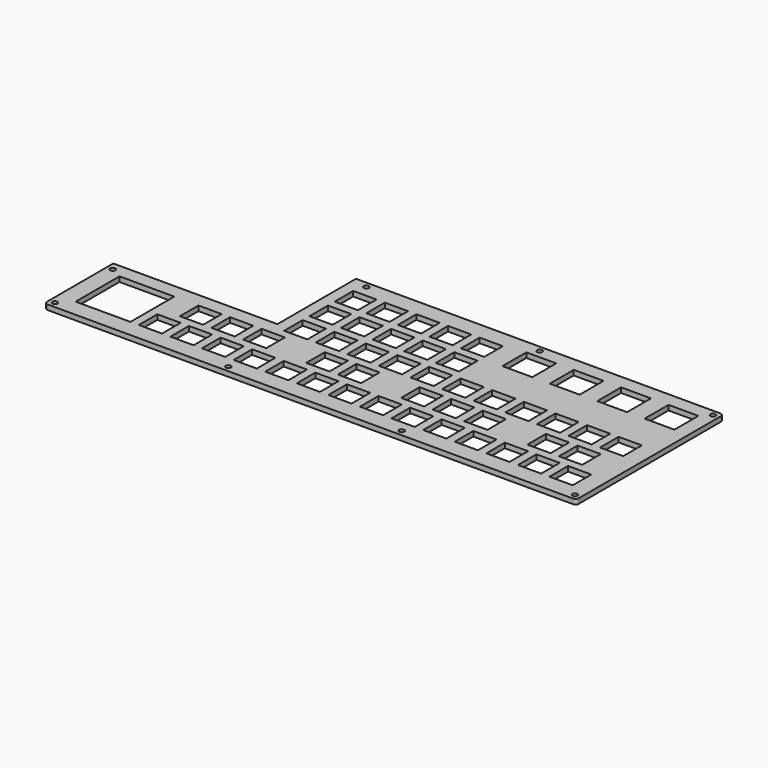
from build123d import *

# Parameters (mm, degrees)
PAD_DEPTH       = 3
SKETCH001_W     = 14
SKETCH001_H     = 14
POCKET_DEPTH    = 4
SKETCH002_W     = 14
SKETCH002_H     = 14
POCKET001_DEPTH = 4
SKETCH003_W     = 14
SKETCH003_H     = 14
POCKET002_DEPTH = 4
SKETCH004_W     = 14
SKETCH004_H     = 14
POCKET003_DEPTH = 4
SKETCH005_W     = 18
SKETCH005_H     = 18
POCKET004_DEPTH = 4
SKETCH006_W     = 33.05
SKETCH006_H     = 33.05
POCKET005_DEPTH = 4
SKETCH007_R     = 1.55
POCKET006_DEPTH = 4


with BuildPart() as part:
    # Sketch → Pad (new body)
    with BuildSketch(Plane.XY):
        with BuildLine():
            Line((81.5225, 17.4775), (301.2275, 17.4775))
            ThreePointArc((303.2275, 15.4775), (302.641714, 16.891714), (301.2275, 17.4775))
            Line((303.2275, 15.4775), (303.2275, -91.6775))
            ThreePointArc((301.2275, -93.6775), (302.641714, -93.091714), (303.2275, -91.6775))
            Line((301.2275, -93.6775), (-15.4775, -93.6775))
            ThreePointArc((-17.4775, -91.6775), (-16.891714, -93.091714), (-15.4775, -93.6775))
            Line((-17.4775, -91.6775), (-17.4775, -41.7225))
            Line((-17.4775, -41.7225), (81.5225, -41.7225))
            Line((81.5225, 17.4775), (81.5225, -41.7225))
        make_face()
    extrude(amount=PAD_DEPTH)

    # Sketch001 → Pocket (cut)
    with BuildSketch(Plane.XY.offset(3)):
        with Locations((38.1, -76.2)):
            Rectangle(SKETCH001_W, SKETCH001_H)
        with Locations((57.15, -76.2)):
            Rectangle(SKETCH001_W, SKETCH001_H)
        with Locations((76.2, -76.2)):
            Rectangle(SKETCH001_W, SKETCH001_H)
        with Locations((95.25, -76.2)):
            Rectangle(SKETCH001_W, SKETCH001_H)
        with Locations((114.3, -76.2)):
            Rectangle(SKETCH001_W, SKETCH001_H)
        with Locations((133.35, -76.2)):
            Rectangle(SKETCH001_W, SKETCH001_H)
        with Locations((152.4, -76.2)):
            Rectangle(SKETCH001_W, SKETCH001_H)
        with Locations((171.45, -76.2)):
            Rectangle(SKETCH001_W, SKETCH001_H)
        with Locations((190.5, -76.2)):
            Rectangle(SKETCH001_W, SKETCH001_H)
        with Locations((209.55, -76.2)):
            Rectangle(SKETCH001_W, SKETCH001_H)
        with Locations((228.6, -76.2)):
            Rectangle(SKETCH001_W, SKETCH001_H)
        with Locations((247.65, -76.2)):
            Rectangle(SKETCH001_W, SKETCH001_H)
        with Locations((266.7, -76.2)):
            Rectangle(SKETCH001_W, SKETCH001_H)
        with Locations((285.75, -76.2)):
            Rectangle(SKETCH001_W, SKETCH001_H)
    extrude(amount=-POCKET_DEPTH, mode=Mode.SUBTRACT)

    # Sketch002 → Pocket001 (cut)
    with BuildSketch(Plane.XY.offset(3)):
        with Locations((47.625, -57.15)):
            Rectangle(SKETCH002_W, SKETCH002_H)
        with Locations((66.675, -57.15)):
            Rectangle(SKETCH002_W, SKETCH002_H)
        with Locations((85.725, -57.15)):
            Rectangle(SKETCH002_W, SKETCH002_H)
        with Locations((123.825, -57.15)):
            Rectangle(SKETCH002_W, SKETCH002_H)
        with Locations((142.875, -57.15)):
            Rectangle(SKETCH002_W, SKETCH002_H)
        with Locations((180.975, -57.15)):
            Rectangle(SKETCH002_W, SKETCH002_H)
        with Locations((200.025, -57.15)):
            Rectangle(SKETCH002_W, SKETCH002_H)
        with Locations((219.075, -57.15)):
            Rectangle(SKETCH002_W, SKETCH002_H)
        with Locations((257.175, -57.15)):
            Rectangle(SKETCH002_W, SKETCH002_H)
        with Locations((276.225, -57.15)):
            Rectangle(SKETCH002_W, SKETCH002_H)
    extrude(amount=-POCKET001_DEPTH, mode=Mode.SUBTRACT)

    # Sketch003 → Pocket002 (cut)
    with BuildSketch(Plane.XY.offset(3)):
        with Locations((95.25, 0)):
            Rectangle(SKETCH003_W, SKETCH003_H)
        with Locations((114.3, 0)):
            Rectangle(SKETCH003_W, SKETCH003_H)
        with Locations((133.35, 0)):
            Rectangle(SKETCH003_W, SKETCH003_H)
        with Locations((152.4, 0)):
            Rectangle(SKETCH003_W, SKETCH003_H)
        with Locations((171.45, 0)):
            Rectangle(SKETCH003_W, SKETCH003_H)
        with Locations((95.25, -19.05)):
            Rectangle(SKETCH003_W, SKETCH003_H)
        with Locations((114.3, -19.05)):
            Rectangle(SKETCH003_W, SKETCH003_H)
        with Locations((133.35, -19.05)):
            Rectangle(SKETCH003_W, SKETCH003_H)
        with Locations((152.4, -19.05)):
            Rectangle(SKETCH003_W, SKETCH003_H)
        with Locations((171.45, -19.05)):
            Rectangle(SKETCH003_W, SKETCH003_H)
        with Locations((95.25, -38.1)):
            Rectangle(SKETCH003_W, SKETCH003_H)
        with Locations((114.3, -38.1)):
            Rectangle(SKETCH003_W, SKETCH003_H)
        with Locations((133.35, -38.1)):
            Rectangle(SKETCH003_W, SKETCH003_H)
        with Locations((152.4, -38.1)):
            Rectangle(SKETCH003_W, SKETCH003_H)
        with Locations((171.45, -38.1)):
            Rectangle(SKETCH003_W, SKETCH003_H)
    extrude(amount=-POCKET002_DEPTH, mode=Mode.SUBTRACT)

    # Sketch004 → Pocket003 (cut)
    with BuildSketch(Plane.XY.offset(3)):
        with Locations((190.5, -38.1)):
            Rectangle(SKETCH004_W, SKETCH004_H)
        with Locations((209.55, -38.1)):
            Rectangle(SKETCH004_W, SKETCH004_H)
        with Locations((228.6, -38.1)):
            Rectangle(SKETCH004_W, SKETCH004_H)
        with Locations((247.65, -38.1)):
            Rectangle(SKETCH004_W, SKETCH004_H)
        with Locations((266.7, -38.1)):
            Rectangle(SKETCH004_W, SKETCH004_H)
        with Locations((285.75, -38.1)):
            Rectangle(SKETCH004_W, SKETCH004_H)
    extrude(amount=-POCKET003_DEPTH, mode=Mode.SUBTRACT)

    # Sketch005 → Pocket004 (cut)
    with BuildSketch(Plane.XY.offset(3)):
        with Locations((200.025, 0)):
            Rectangle(SKETCH005_W, SKETCH005_H)
        with Locations((285.75, 0)):
            Rectangle(SKETCH005_W, SKETCH005_H)
        with Locations((257.175, 0)):
            Rectangle(SKETCH005_W, SKETCH005_H)
        with Locations((228.6, 0)):
            Rectangle(SKETCH005_W, SKETCH005_H)
    extrude(amount=-POCKET004_DEPTH, mode=Mode.SUBTRACT)

    # Sketch006 → Pocket005 (cut)
    with BuildSketch(Plane.XY.offset(3)):
        with Locations((9.525, -66.675)):
            Rectangle(SKETCH006_W, SKETCH006_H)
    extrude(amount=-POCKET005_DEPTH, mode=Mode.SUBTRACT)

    # Sketch007 → Pocket006 (cut)
    with BuildSketch(Plane.XY.offset(3)):
        with Locations((-13.9055, -90.1055)):
            Circle(SKETCH007_R)
        with Locations((299.6555, -90.1055)):
            Circle(SKETCH007_R)
        with Locations((90.614833, -90.1055)):
            Circle(SKETCH007_R)
        with Locations((195.135167, -90.1055)):
            Circle(SKETCH007_R)
        with Locations((90.614833, 13.9055)):
            Circle(SKETCH007_R)
        with Locations((195.135167, 13.9055)):
            Circle(SKETCH007_R)
        with Locations((299.6555, 13.9055)):
            Circle(SKETCH007_R)
        with Locations((-13.9055, -46.578)):
            Circle(SKETCH007_R)
    extrude(amount=-POCKET006_DEPTH, mode=Mode.SUBTRACT)


solid = part.part
